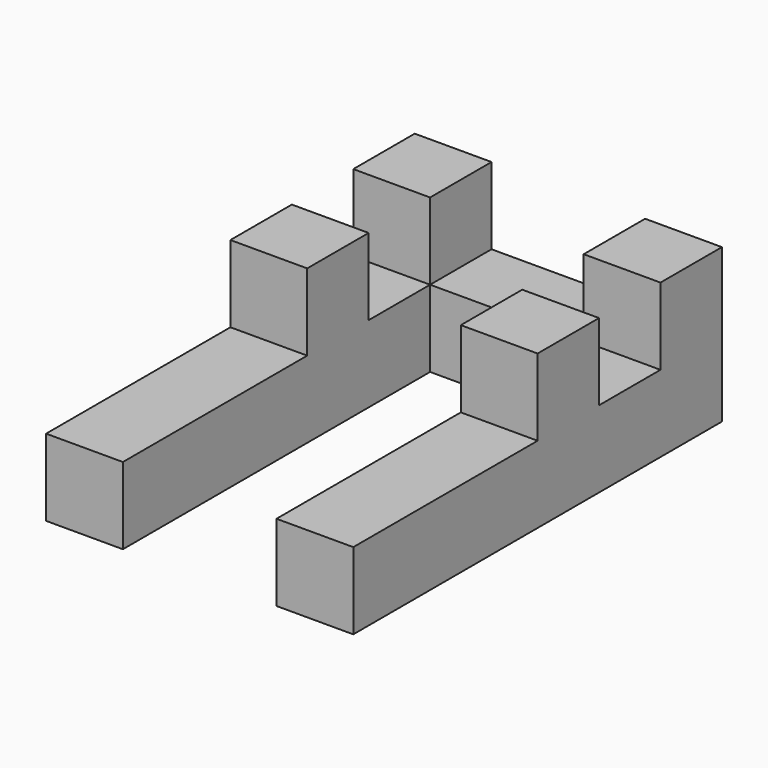
from build123d import *

# Parameters (mm, degrees)
F1_DEPTH = 12.7
F2_W     = 12.7
F2_H     = 12.7
F3_DEPTH = 12.7


with BuildPart() as f1:
    # F0 (on Top) → F1 (new body)
    with BuildSketch(Plane.XY):
        Polygon((-40.525064, 35.351565), (-40.525064, -40.848435), (-27.825064, -40.848435), (-27.825064, 22.651565), (-2.425064, 22.651565), (-2.425064, -40.848435), (10.274936, -40.848435), (10.274936, 35.351565), align=None)
    extrude(amount=F1_DEPTH)

    # F2 (on face) → F3 (join)
    with BuildSketch(Plane.XY.offset(12.7)):
        with Locations((-34.175064, 3.601565)):
            Rectangle(F2_W, F2_H)
        with Locations((-34.175064, 29.001565)):
            Rectangle(F2_W, F2_H)
        with Locations((3.924936, 29.001565)):
            Rectangle(F2_W, F2_H)
        with Locations((3.924936, 3.601565)):
            Rectangle(F2_W, F2_H)
    extrude(amount=F3_DEPTH)


solid = f1.part
